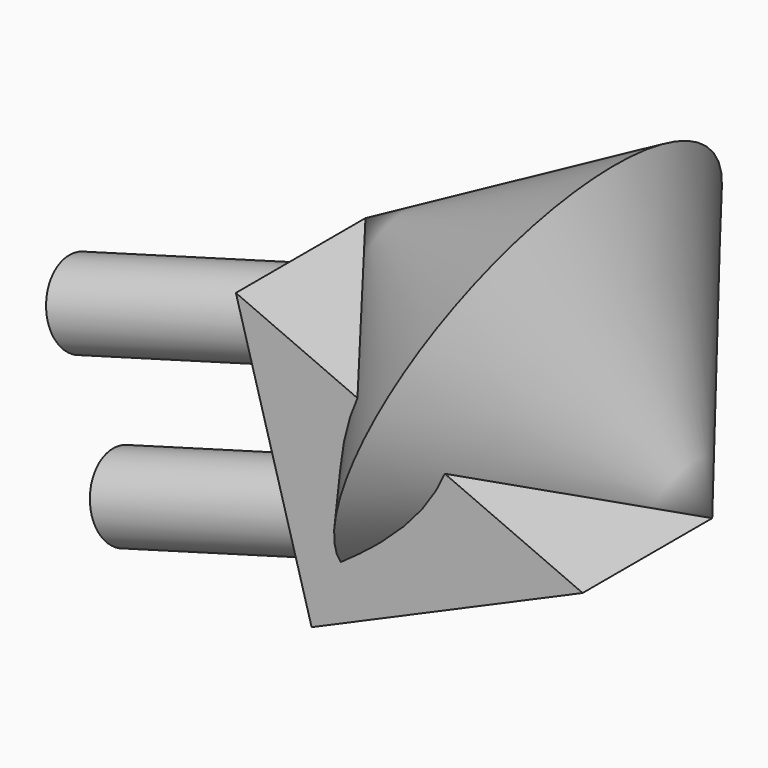
from build123d import *

# Parameters (mm, degrees)
F1_DEPTH = 50.8
F2_ANGLE = 340
F3_R     = 12.7
F4_DEPTH = 76.2


with BuildPart() as f1:
    # F0 (on Front) → F1 (new body)
    with BuildSketch(Plane.XZ):
        Polygon((46.242620796, 8.540305309), (-62.490016222, 56.0327209532), (-38.7438088655, -28.5371076316), align=None)
    extrude(amount=F1_DEPTH)

    # F3 (on face) → F4 (join)
    with BuildSketch(Plane(origin=(-43.3397024287, 0, -12.1692757081), x_dir=(0, -1, 0), z_dir=(-0.9627667388, 0, -0.2703335102))):
        with Locations((25.4, 4.3591374225)):
            Circle(F3_R)
        with Locations((25.4, 55.1591374225)):
            Circle(F3_R)
    extrude(amount=F4_DEPTH)


with BuildPart() as f2:
    # F0 (on Front) → F2 (revolve)
    with BuildSketch(Plane.XZ):
        Polygon((46.242620796, 8.540305309), (-62.490016222, 56.0327209532), (-38.7438088655, -28.5371076316), align=None)
    revolve(axis=Axis((-8.123697713, 0, 32.2865131311), (-0.9163989182, 0, 0.4002661898)), revolution_arc=F2_ANGLE)


solid = Compound([f1.part, f2.part])
